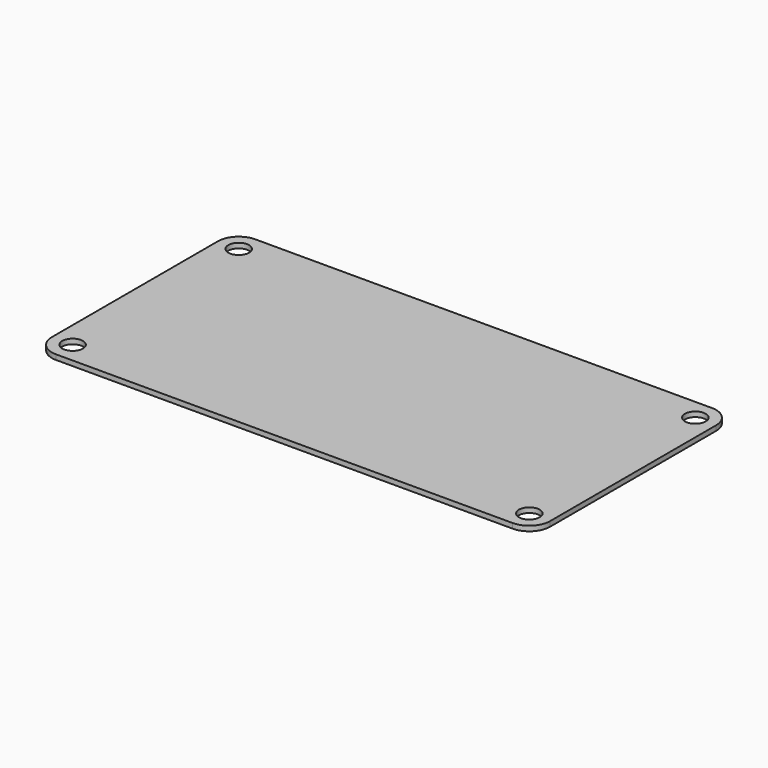
from build123d import *

# Parameters (mm, degrees)
F1_DEPTH = 6
F2_D     = 25
F3_D     = 25
F4_D     = 25


with BuildPart() as f1:
    # F0 (on Top) → F1 (new body)
    with BuildSketch(Plane.XY):
        with BuildLine():
            Line((-275, -150), (275, -150))
            ThreePointArc((275, -150), (292.67767, -142.67767), (300, -125))
            Line((300, -125), (300, 125))
            ThreePointArc((300, 125), (292.67767, 142.67767), (275, 150))
            Line((275, 150), (-275, 150))
            ThreePointArc((-275, 150), (-292.67767, 142.67767), (-300, 125))
            Line((-300, 125), (-300, -125))
            ThreePointArc((-300, -125), (-292.67767, -142.67767), (-275, -150))
        make_face()
    extrude(amount=F1_DEPTH)

    # F2 (through all)
    with Locations(Plane(origin=(0, 0, 0), x_dir=(1, 0, 0), z_dir=(0, 0, -1))):
        with Locations((-275, -125)):
            Hole(F2_D / 2)

    # F3 (through all)
    with Locations(Plane(origin=(0, 0, 0), x_dir=(1, 0, 0), z_dir=(0, 0, -1))):
        with Locations((-275, 125), (275, -125)):
            Hole(F3_D / 2)

    # F4 (through all)
    with Locations(Plane(origin=(0, 0, 0), x_dir=(1, 0, 0), z_dir=(0, 0, -1))):
        with Locations((275, 125)):
            Hole(F4_D / 2)


solid = f1.part
